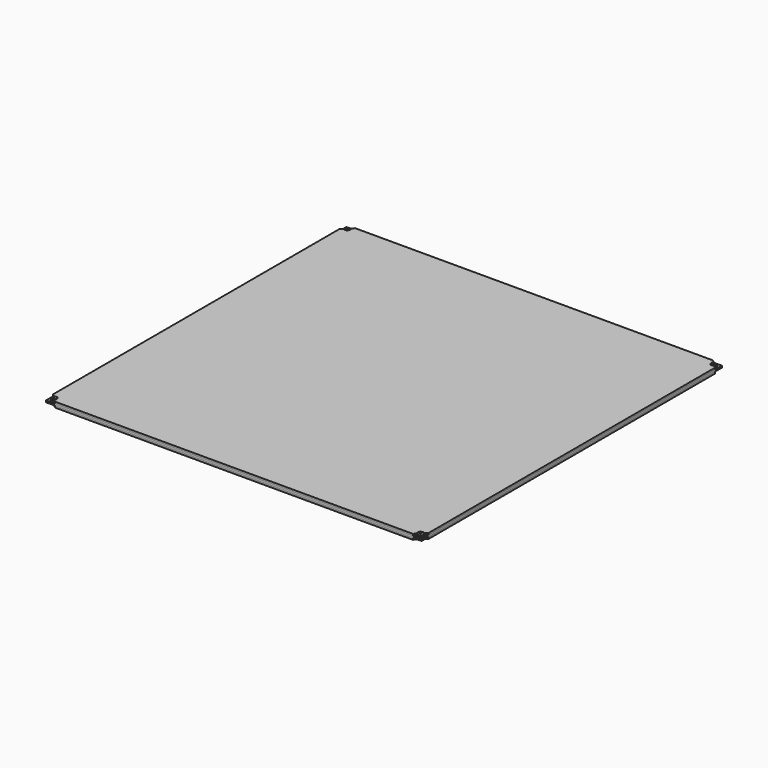
from build123d import *

# Parameters (mm, degrees)
F1_DEPTH = 1
F2_DEPTH = 1
F3_D     = 3
F3_DEPTH = 1.001
F4_START = -1
F4_DEPTH = 1
F6_D     = 3.3


with BuildPart() as f1:
    # F0 (on Top) → F1 (new body)
    with BuildSketch(Plane.XY):
        Polygon((107, 102), (102, 107), (-102, 107), (-107, 102), (-107, -102), (-102, -107), (102, -107), (107, -102), align=None)
    extrude(amount=F1_DEPTH)

    # F6 (through all)
    with Locations(Plane(origin=(0, 0, 0), x_dir=(1, 0, 0), z_dir=(0, 0, -1))):
        with Locations((-104.5, 104.5), (-104.5, -104.5), (104.5, -104.5), (104.5, 104.5)):
            Hole(F6_D / 2)


with BuildPart() as f2:
    # F0 (on Top) → F2 (new body)
    with BuildSketch(Plane.XY):
        Polygon((-102, -107), (-107, -102), (-107, -107), align=None)
        Polygon((107, 102), (102, 107), (-102, 107), (-107, 102), (-107, -102), (-102, -107), (102, -107), (107, -102), align=None)
        Polygon((107, -107), (107, -102), (102, -107), align=None)
        Polygon((107, 102), (107, 107), (102, 107), align=None)
        Polygon((-107, 102), (-102, 107), (-107, 107), align=None)
    extrude(amount=-F2_DEPTH)

    # F3 (through all, one way)
    with BuildSketch(Plane.XY):
        with Locations((-104.5, 104.5), (-104.5, -104.5), (104.5, -104.5), (104.5, 104.5)):
            Circle(F3_D / 2)
    extrude(amount=-F3_DEPTH, mode=Mode.SUBTRACT)


with BuildPart() as f4:
    # F0 (on Top) → F4 (new body)
    with BuildSketch(Plane.XY.offset(F4_START)):
        Polygon((107, 102), (102, 107), (-102, 107), (-107, 102), (-107, -102), (-102, -107), (102, -107), (107, -102), align=None)
    extrude(amount=-F4_DEPTH)


solid = Compound([f1.part, f2.part, f4.part])
